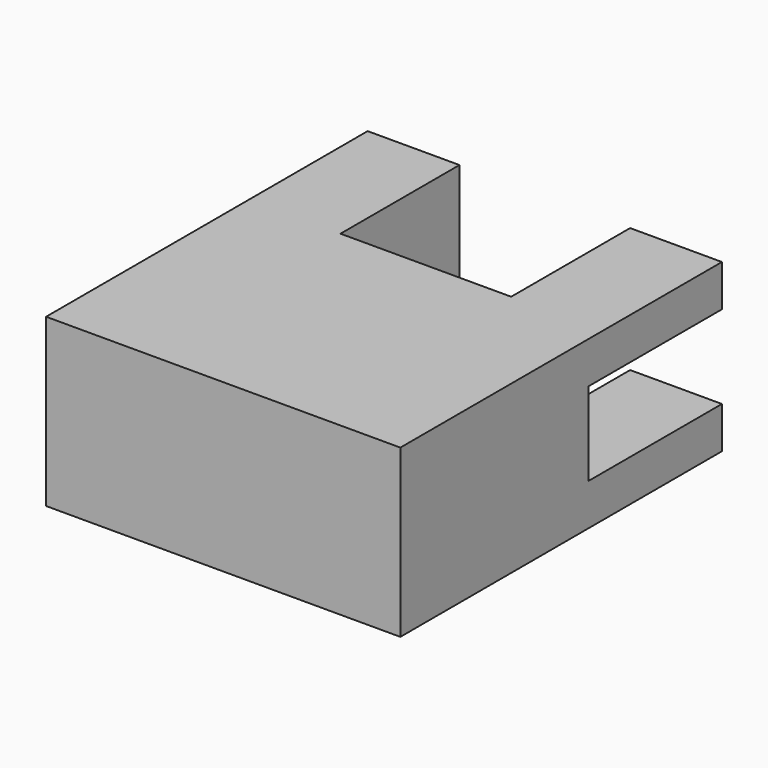
from build123d import *

# Parameters (mm, degrees)
F1_DEPTH   = 25.4
F2_W       = 13.9918979257
F2_H       = 6.35
F1_FACE1_W = 26.0131005198
F1_FACE1_H = 25.4
F1_FACE_W  = 13.9918979257
F1_FACE_H  = 25.4
F3_DEPTH   = 25.4


with BuildPart() as f1:
    # F0 (on Top) → F1 (new body)
    with BuildSketch(Plane.XY):
        Polygon((0, 35.8665511012), (0, 0), (53.9968963712, 0), (53.9968963712, 35.8665511012), (40.0049984455, 35.8665511012), (40.0049984455, 13.2036199793), (13.9918979257, 13.2036199793), (13.9918979257, 35.8665511012), align=None)
    extrude(amount=F1_DEPTH)

    # F2 (on face) + F1_face1 (on face) + F1_face (on face) → F3 (join)
    with BuildSketch(Plane(origin=(0, 35.8665511012, 0), x_dir=(-1, 0, 0), z_dir=(0, 1, 0))):
        with Locations((-47.0009474084, 3.175)):
            Rectangle(F2_W, F2_H)
        with Locations((-47.0009474084, 22.225)):
            Rectangle(F2_W, F2_H)
    with BuildSketch(Plane(origin=(26.9984481856, 13.2036199793, 12.7), x_dir=(-1, 0, 0), z_dir=(0, 1, 0))):
        Rectangle(F1_FACE1_W, F1_FACE1_H)
    with BuildSketch(Plane(origin=(47.0009474084, 35.8665511012, 12.7), x_dir=(-1, 0, 0), z_dir=(0, 1, 0))):
        with Locations((40.0049984455, 0)):
            Rectangle(F1_FACE_W, F1_FACE_H)
    extrude(amount=F3_DEPTH)


solid = f1.part
